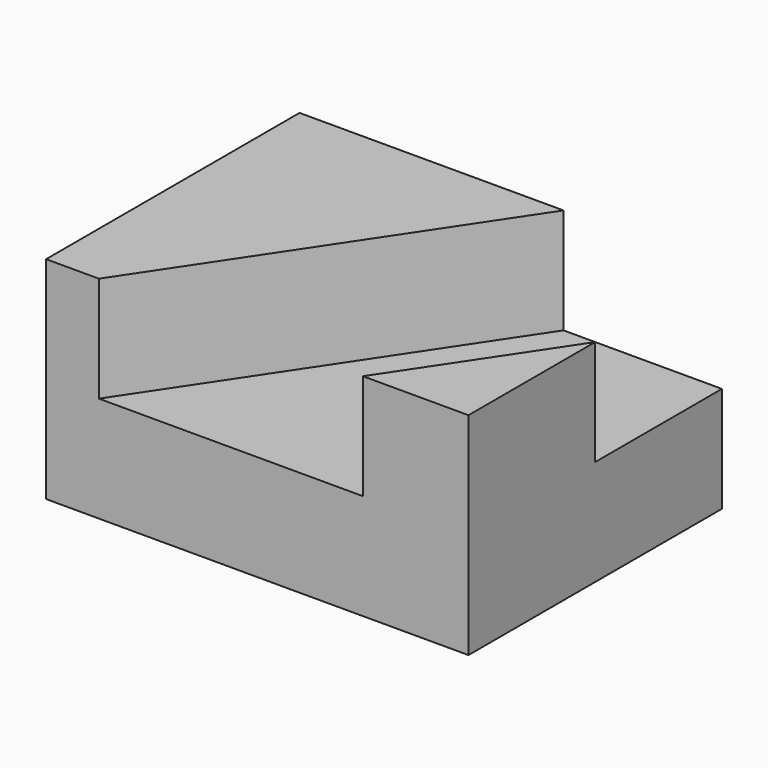
from build123d import *

# Parameters (mm, degrees)
F0_W     = 50.8
F0_H     = 12.7
F1_DEPTH = 38.1
F3_DEPTH = 12.7
F4_W     = 6.35
F4_H     = 38.1
F5_DEPTH = 12.7
F7_DEPTH = 12.7


with BuildPart() as f1:
    # F0 (on Front) → F1 (new body)
    with BuildSketch(Plane.XZ):
        with Locations((25.4, 6.35)):
            Rectangle(F0_W, F0_H)
    extrude(amount=F1_DEPTH)

    # F2 (on face) → F3 (join)
    with BuildSketch(Plane.XY.offset(12.7)):
        Polygon((50.8, -38.1), (50.8, -19.05), (38.1, -38.1), align=None)
    extrude(amount=F3_DEPTH)

    # F4 (on face) → F5 (join)
    with BuildSketch(Plane.XY.offset(12.7)):
        with Locations((3.175, -19.05)):
            Rectangle(F4_W, F4_H)
    extrude(amount=F5_DEPTH)

    # F6 (on face) → F7 (join)
    with BuildSketch(Plane.XY.offset(12.7)):
        Polygon((6.35, 0), (6.35, -38.1), (31.75, 0), align=None)
    extrude(amount=F7_DEPTH)


solid = f1.part
